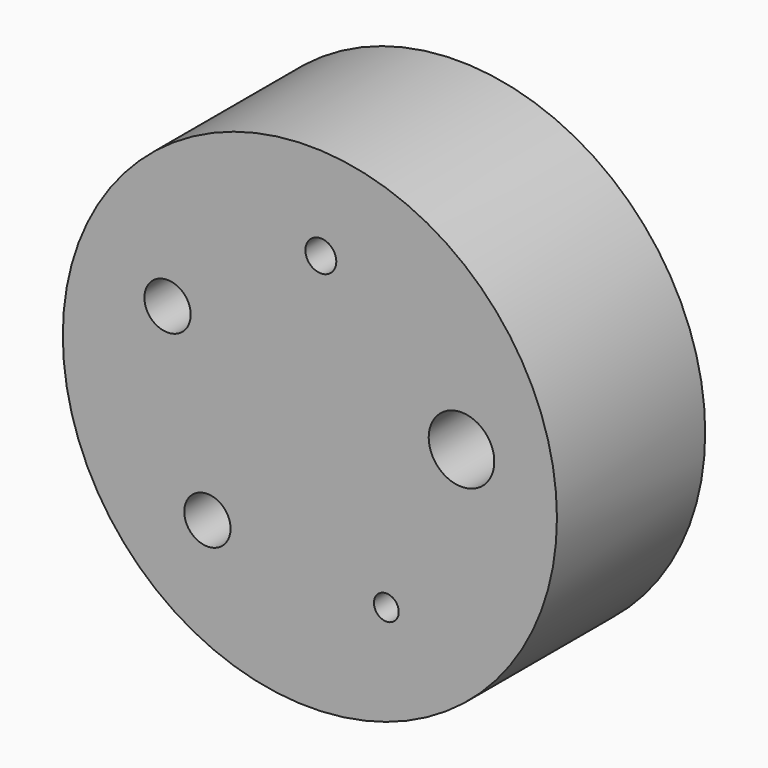
from build123d import *

# Parameters (mm, degrees)
F0_R           = 50.8
F0_R_2         = 31.75
F1_DEPTH       = 38.1
F2_D           = 6.35
F3_D           = 9.525
F3_CBORE_D     = 19.05
F3_CBORE_DEPTH = 6.35
F4_D           = 9.525
F4_CSINK_D     = 19.05
F4_CSINK_ANGLE = 82
F5_D           = 5.1054
F6_D           = 13.4874


with BuildPart() as f1:
    # F0 (on Front) → F1 (new body)
    with BuildSketch(Plane.XZ):
        with Locations((-69.1840230678, 39.4321120498)):
            Circle(F0_R)
        with Locations((-69.1840230678, 39.4321120498)):
            Circle(F0_R_2, mode=Mode.SUBTRACT)
        with Locations((-69.1840230678, 39.4321120498)):
            Circle(F0_R_2)
    extrude(amount=F1_DEPTH)

    # F2 (through all)
    with Locations(Plane(origin=(0, 0, 0), x_dir=(1, 0, 0), z_dir=(0, 1, 0))):
        with Locations((-66.9303433413, -71.1020256539)):
            Hole(F2_D / 2)

    # F3 (through all)
    with Locations(Plane(origin=(0, 0, 0), x_dir=(1, 0, 0), z_dir=(0, 1, 0))):
        with Locations((-98.4487968518, -51.7461493802)):
            CounterBoreHole(F3_D / 2, F3_CBORE_D / 2, F3_CBORE_DEPTH)

    # F4 (through all)
    with Locations(Plane(origin=(0, 0, 0), x_dir=(1, 0, 0), z_dir=(0, 1, 0))):
        with Locations((-90.251409269, -15.6786335961)):
            CounterSinkHole(F4_D / 2, F4_CSINK_D / 2, counter_sink_angle=F4_CSINK_ANGLE)

    # F5 (through all)
    with Locations(Plane(origin=(0, 0, 0), x_dir=(1, 0, 0), z_dir=(0, 1, 0))):
        with Locations((-53.4630279955, -11.847463893)):
            Hole(F5_D / 2)

    # F6 (through all)
    with Locations(Plane(origin=(0, 0, 0), x_dir=(1, 0, 0), z_dir=(0, 1, 0))):
        with Locations((-38.0099403665, -45.4520013953)):
            Hole(F6_D / 2)


solid = f1.part
